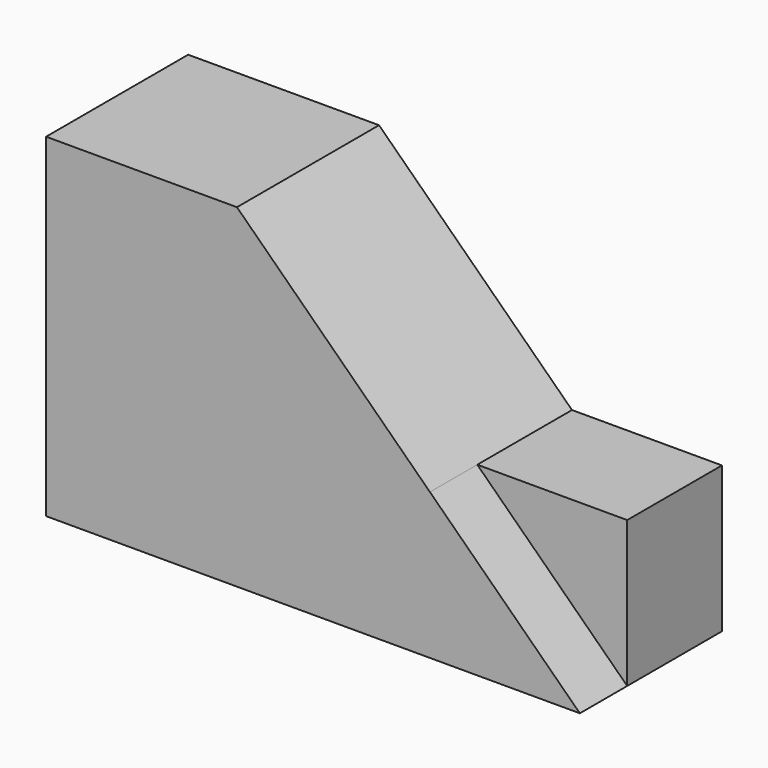
from build123d import *

# Parameters (mm, degrees)
F1_DEPTH = 38.1
F2_DEPTH = 25.4


with BuildPart() as f1:
    # F0 (on Front) → F1 (new body)
    with BuildSketch(Plane.XZ):
        Polygon((25.092965, -4.49749), (-16.305355, 35.833862), (-57.258341, 35.833862), (-57.258341, -35.833862), (57.258341, -35.833862), align=None)
    extrude(amount=F1_DEPTH)

    # F0 (on Front) → F2 (join)
    with BuildSketch(Plane.XZ):
        Polygon((57.258341, -4.49749), (25.092965, -4.49749), (57.258341, -35.833862), align=None)
    extrude(amount=F2_DEPTH)


solid = f1.part
